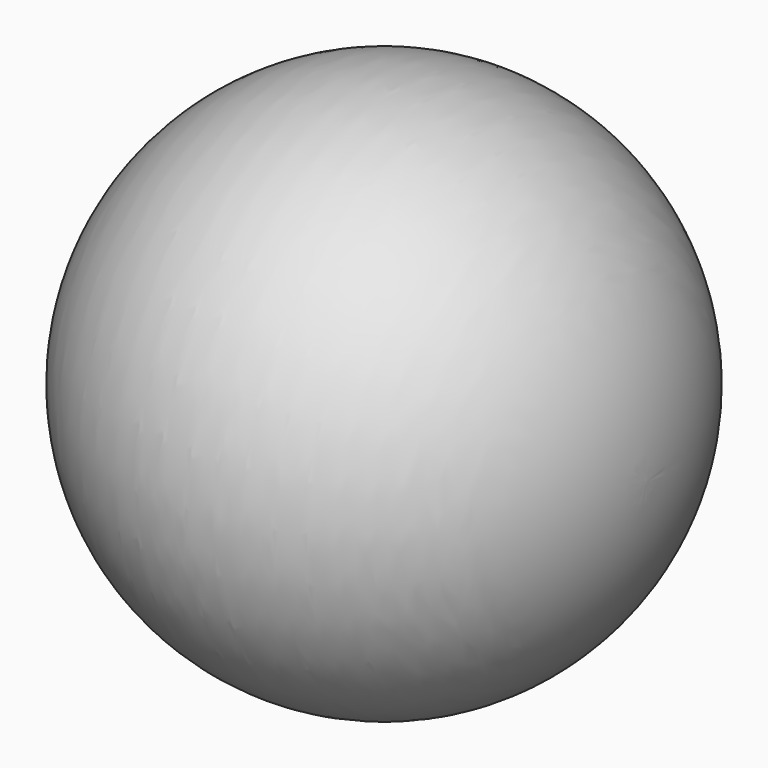
from build123d import *


with BuildPart() as f1:
    # F0 (on Top) → F1 (revolve)
    with BuildSketch(Plane.XY):
        with BuildLine():
            ThreePointArc((126.1809120064, 313.2940722235), (32.5825960044, 168.9342446462), (0, 0))
            Line((0, 0), (126.1809120064, 0))
            Line((126.1809120064, 0), (126.1809120064, 313.2940722235))
        make_face()
        with BuildLine():
            Line((126.1809120064, 313.2940722235), (126.1809120064, 0))
            Line((126.1809120064, 0), (900, 0))
            ThreePointArc((900, 0), (618.8748044005, 417.9285452696), (126.1809120064, 313.2940722235))
        make_face()
    revolve(axis=Axis((450, 0, 0), (1, 0, 0)))


solid = f1.part
